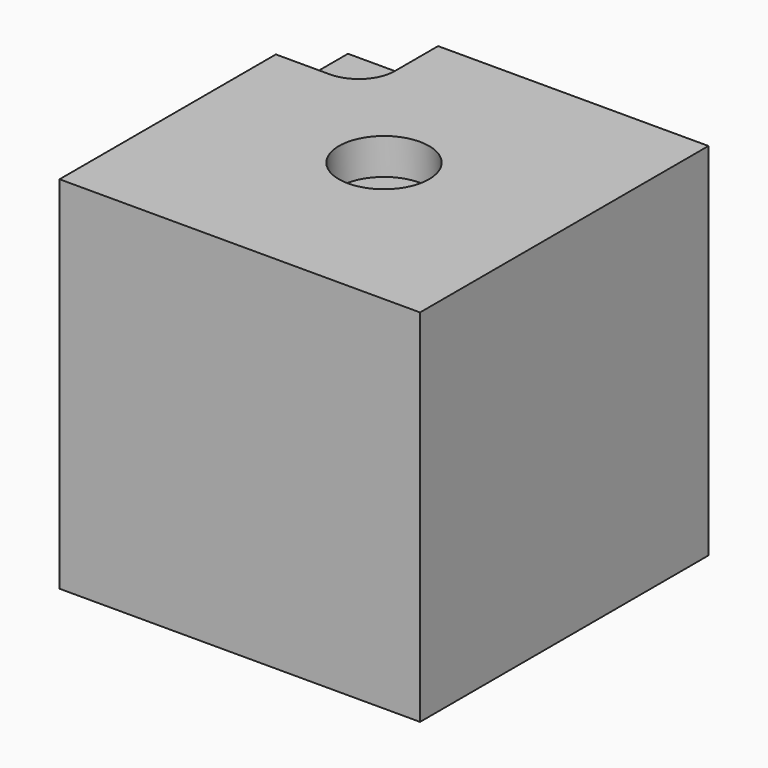
from build123d import *

# Parameters (mm, degrees)
F0_W     = 25.4
F0_H     = 25.4
F1_DEPTH = 25.4
F2_W     = 6.35
F2_H     = 6.35
F2_R     = 3.175
F3_DEPTH = 2.54
F4_R     = 2.54


with BuildPart() as f1:
    # F0 (on Top) → F1 (new body)
    with BuildSketch(Plane.XY):
        Rectangle(F0_W, F0_H)
    extrude(amount=F1_DEPTH)

    # F2 (on face) → F3 (cut)
    with BuildSketch(Plane.XY.offset(25.4)):
        with Locations((-9.525, 9.525)):
            Rectangle(F2_W, F2_H)
        Circle(F2_R)
    extrude(amount=-F3_DEPTH, mode=Mode.SUBTRACT)

    # F4
    f4_edges = [f1.edges().sort_by_distance(p)[0] for p in [
        (-6.35, 6.35, 24.13),
    ]]
    fillet(f4_edges, radius=F4_R)


solid = f1.part
